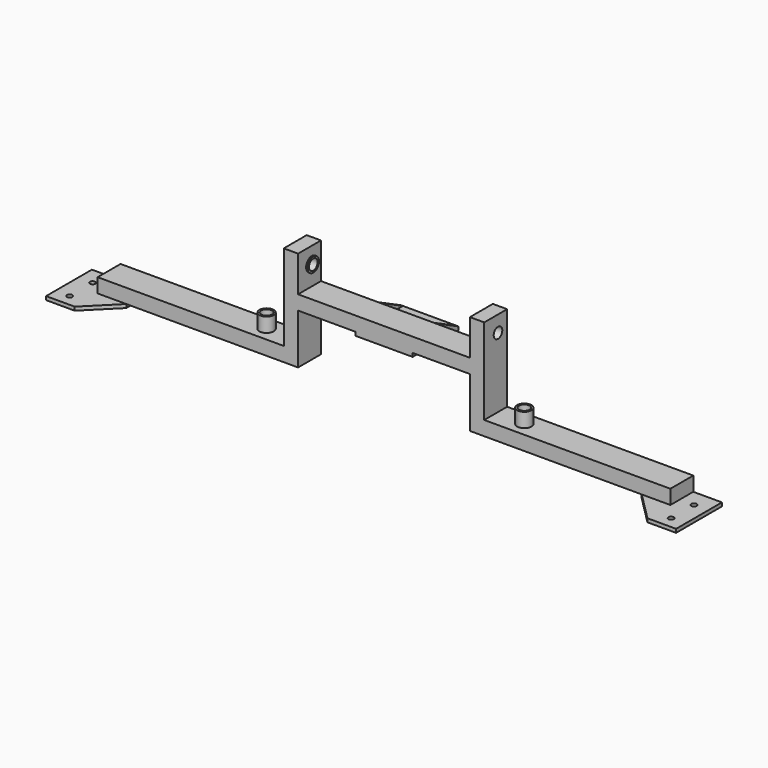
from build123d import *

# Parameters (mm, degrees)
F0_W      = 355.6
F0_H      = 50.8
F1_DEPTH  = 25.4
F3_DEPTH  = 6.35
F4_R      = 4.7625
F5_DEPTH  = 25.4
F6_R      = 12.7
F6_R_2    = 9.525
F7_DEPTH  = 25.4
F8_W      = 25.4
F8_H      = 50.8
F9_DEPTH  = 152.4
F10_W     = 50.8
F10_H     = 25.4
F11_DEPTH = 152.4
F12_R     = 12.7
F12_R_2   = 9.525
F13_DEPTH = 2.54
F14_R     = 9.525
F15_DEPTH = 25.4
F16_W     = 50.8
F16_H     = 101.6
F17_DEPTH = 6.35
F18_R     = 6.35
F19_DEPTH = 25.4
F20_W     = 50.8
F20_H     = 6.35
F21_DEPTH = 3.175
F24_W     = 44.704
F24_H     = 19.304
F25_DEPTH = 327.025


with BuildPart() as f1:
    # F0 (on Top) → F1 (new body)
    with BuildSketch(Plane.XY):
        with Locations((177.8, 11.7930904027)):
            Rectangle(F0_W, F0_H)
    extrude(amount=F1_DEPTH)

    # F2 (on Top) → F3 (join)
    with BuildSketch(Plane.XY):
        Polygon((355.6, 37.1930904027), (304.8, 37.1930904027), (304.8, -13.6069095973), (355.6, -64.4069095973), (406.4, -64.4069095973), (406.4, 37.1930904027), align=None)
    extrude(amount=-F3_DEPTH)

    # F4 (on face) → F5 (cut)
    with BuildSketch(Plane.XY):
        with Locations((381, -43.7694095973)):
            Circle(F4_R)
        with Locations((381, 7.0305904027)):
            Circle(F4_R)
    extrude(amount=-F5_DEPTH, mode=Mode.SUBTRACT)

    # F6 (on face) → F7 (join)
    with BuildSketch(Plane.XY.offset(25.4)):
        with Locations((76.2, 11.7930904027)):
            Circle(F6_R)
        with Locations((76.2, 11.7930904027)):
            Circle(F6_R_2, mode=Mode.SUBTRACT)
    extrude(amount=F7_DEPTH)

    # F8 (on face) → F9 (join)
    with BuildSketch(Plane.XY.offset(25.4)):
        with Locations((12.7, 11.7930904027)):
            Rectangle(F8_W, F8_H)
    extrude(amount=F9_DEPTH)

    # F10 (on face) → F11 (join)
    with BuildSketch(Plane(origin=(0, 0, 0), x_dir=(0, -1, 0), z_dir=(-1, 0, 0))):
        with Locations((-11.7930904027, 101.6)):
            Rectangle(F10_W, F10_H)
    extrude(amount=F11_DEPTH)

    # F12 (on face) → F13 (join)
    with BuildSketch(Plane(origin=(0, 0, 0), x_dir=(0, -1, 0), z_dir=(-1, 0, 0))):
        with Locations((-16.9099774212, 149.1121947765)):
            Circle(F12_R)
        with Locations((-16.9099774212, 149.1121947765)):
            Circle(F12_R_2, mode=Mode.SUBTRACT)
    extrude(amount=F13_DEPTH)

    # F14 (on face) → F15 (cut)
    with BuildSketch(Plane(origin=(0, 0, 0), x_dir=(0, -1, 0), z_dir=(-1, 0, 0))):
        with Locations((-16.9099774212, 149.1121947765)):
            Circle(F14_R)
    extrude(amount=-F15_DEPTH, mode=Mode.SUBTRACT)

    # F16 (on face) → F17 (join)
    with BuildSketch(Plane(origin=(0, 0, 88.9), x_dir=(1, 0, 0), z_dir=(0, 0, -1))):
        with Locations((-127, -37.1930904027)):
            Rectangle(F16_W, F16_H)
    extrude(amount=F17_DEPTH)

    # F18 (on face) → F19 (cut)
    with BuildSketch(Plane.XY.offset(88.9)):
        with Locations((-124.9504238367, 62.5930904027)):
            Circle(F18_R)
    extrude(amount=-F19_DEPTH, mode=Mode.SUBTRACT)

    # F20 (on face) → F21 (join)
    with BuildSketch(Plane.YZ.offset(-101.6)):
        Polygon((37.1930904027, 88.9), (87.9930904027, 88.9), (37.1930904027, 114.3), align=None)
        with Locations((62.5930904027, 85.725)):
            Rectangle(F20_W, F20_H)
    extrude(amount=-F21_DEPTH)

    # F22: F1 across face


with BuildPart() as f1_1:
    add(f1.part)
    add(f1.part.mirror(Plane(origin=(-152.4, 20.2597570693, 96.3083333333), x_dir=(0, -1, 0), z_dir=(-1, 0, 0))))

    # F24 (on offset) → F25 (cut, through all)
    with BuildSketch(Plane.YZ.offset(352.425)):
        with Locations((11.7930904027, 12.7)):
            Rectangle(F24_W, F24_H)
    extrude(amount=-F25_DEPTH, mode=Mode.SUBTRACT)


solid = f1_1.part
